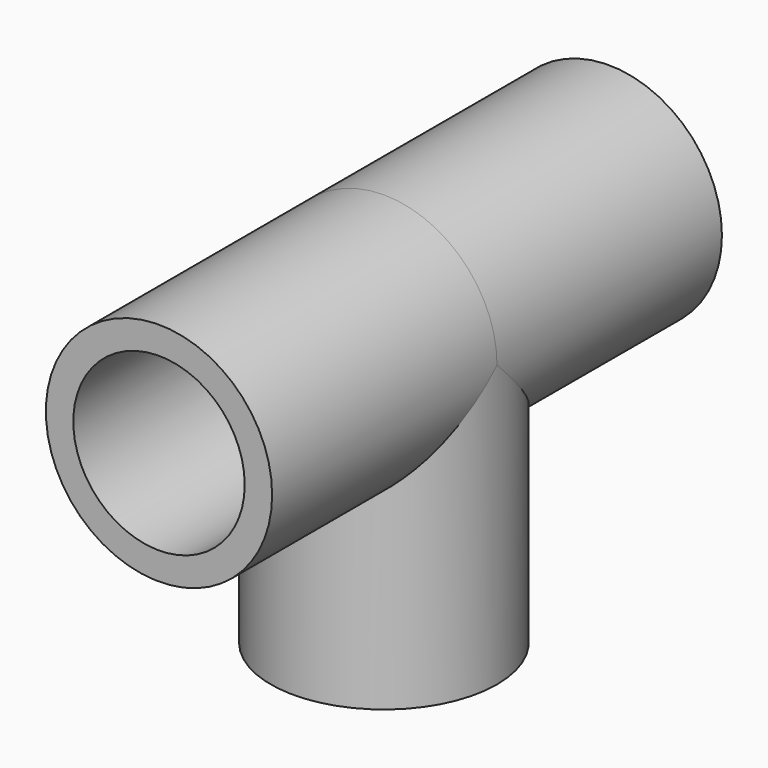
from build123d import *

# Parameters (mm, degrees)
F0_R          = 20.955
F0_R_2        = 15.875
F1_DEPTH      = 52.07
F2_R          = 20.955
F2_R_2        = 15.875
F3_DEPTH      = 52.07
F3_DEPTH_BACK = 52.07


with BuildPart() as f1:
    # F0 (on Top) → F1 (new body)
    with BuildSketch(Plane.XY):
        Circle(F0_R)
        Circle(F0_R_2, mode=Mode.SUBTRACT)
    extrude(amount=-F1_DEPTH)

    # F2 (on Front) → F3 (join, two sides)
    with BuildSketch(Plane.XZ) as f3_sk:
        Circle(F2_R)
        Circle(F2_R_2, mode=Mode.SUBTRACT)
    extrude(amount=F3_DEPTH)
    extrude(f3_sk.sketch, amount=-F3_DEPTH_BACK)


solid = f1.part
